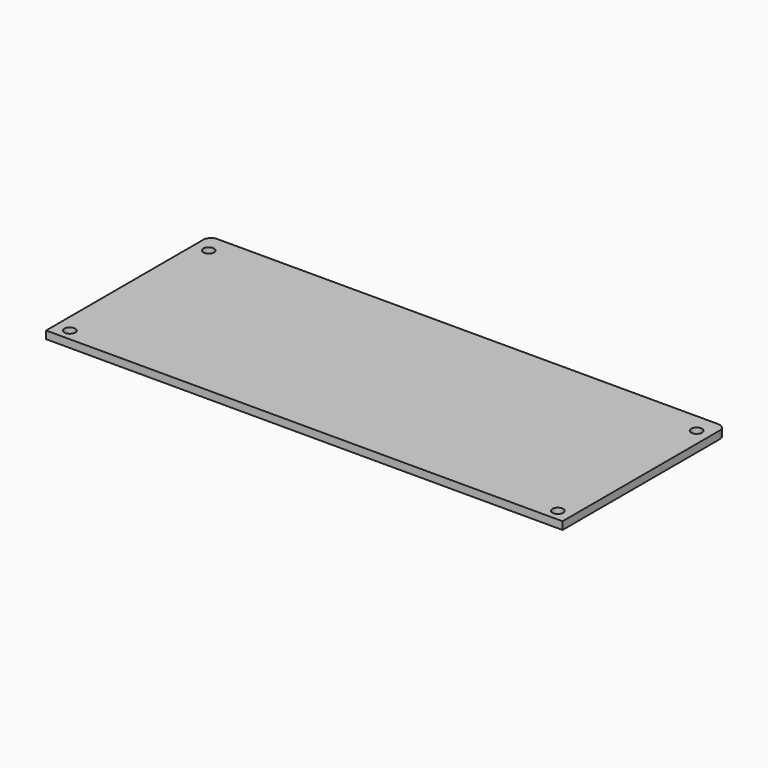
from build123d import *

# Parameters (mm, degrees)
CYLINDER003_R     = 1.4
CYLINDER003_DEPTH = 2
CYLINDER001_R     = 1.4
CYLINDER001_DEPTH = 2
CYLINDER002_R     = 1.4
CYLINDER002_DEPTH = 2
CYLINDER_R        = 1.4
CYLINDER_DEPTH    = 2
BOX_W             = 134
BOX_H             = 53
BOX_DEPTH         = 2
FILLET_R          = 2


with BuildPart() as cylinder003:
    # Cylinder003 → Cylinder003 (new body)
    with BuildSketch(Plane(origin=(130.4, 48, 0), x_dir=(1, 0, 0), z_dir=(0, 0, 1))):
        Circle(CYLINDER003_R)
    extrude(amount=CYLINDER003_DEPTH)


with BuildPart() as cylinder001:
    # Cylinder001 → Cylinder001 (new body)
    with BuildSketch(Plane(origin=(3.8, 48, 0), x_dir=(1, 0, 0), z_dir=(0, 0, 1))):
        Circle(CYLINDER001_R)
    extrude(amount=CYLINDER001_DEPTH)


with BuildPart() as cylinder002:
    # Cylinder002 → Cylinder002 (new body)
    with BuildSketch(Plane(origin=(130.4, 2.97, 0), x_dir=(1, 0, 0), z_dir=(0, 0, 1))):
        Circle(CYLINDER002_R)
    extrude(amount=CYLINDER002_DEPTH)


with BuildPart() as fusion:
    # Cylinder → Cylinder (new body)
    with BuildSketch(Plane(origin=(3.8, 2.97, 0), x_dir=(1, 0, 0), z_dir=(0, 0, 1))):
        Circle(CYLINDER_R)
    extrude(amount=CYLINDER_DEPTH)

    # Fusion: union Cylinder003, Cylinder001, Cylinder002
    add(cylinder003.part)
    add(cylinder001.part)
    add(cylinder002.part)


with BuildPart() as cut:
    # Box → Box (new body)
    with BuildSketch(Plane.XY):
        with Locations((67, 26.5)):
            Rectangle(BOX_W, BOX_H)
    extrude(amount=BOX_DEPTH)

    # Fillet
    fillet_edges = [cut.edges().sort_by_distance(p)[0] for p in [
        (0, 53, 1),
        (134, 53, 1),
    ]]
    fillet(fillet_edges, radius=FILLET_R)

    # Cut: cut Fusion
    add(fusion.part, mode=Mode.SUBTRACT)


solid = cut.part
